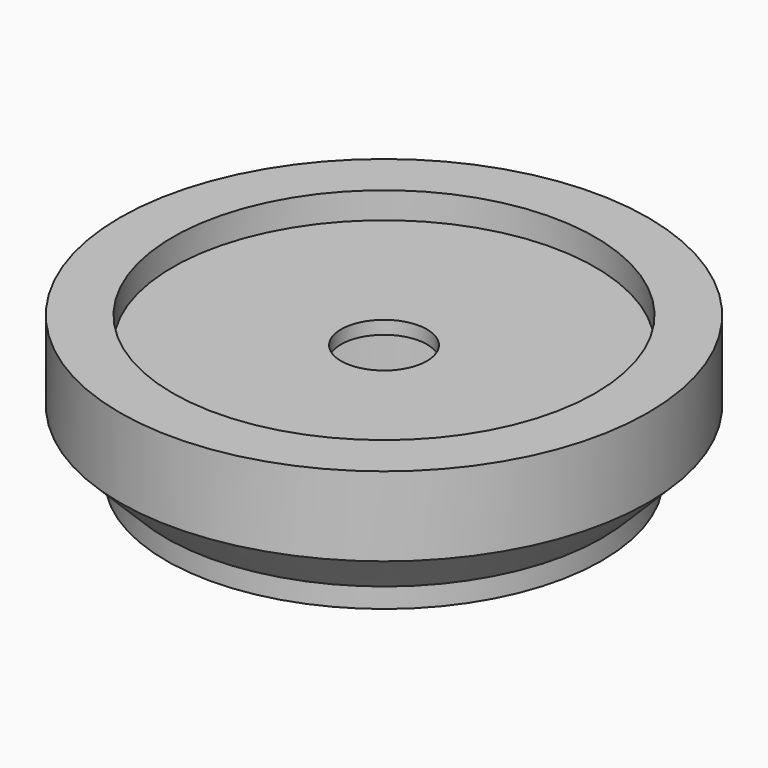
from build123d import *

# Parameters (mm, degrees)
F0_R          = 12.75
F0_R_2        = 3.25
F1_DEPTH      = 5
F0_R_3        = 20
F2_DEPTH      = 6
F2_DEPTH_BACK = 5
F3_SIZE       = 5
F4_R          = 16
F5_DEPTH      = 3
F6_START      = 4
F6_DEPTH      = 21
F7_R          = 16.5
F7_R_2        = 12.7
F8_DEPTH      = 4
F8_DEPTH_BACK = 5


with BuildPart() as f1:
    # F0 (on Top) → F1 (new body)
    with BuildSketch(Plane.XY):
        Circle(F0_R)
        Circle(F0_R_2, mode=Mode.SUBTRACT)
    extrude(amount=F1_DEPTH)

    # F0 (on Top) → F2 (join, two sides)
    with BuildSketch(Plane.XY) as f2_sk:
        Circle(F0_R_3)
        Circle(F0_R, mode=Mode.SUBTRACT)
    extrude(amount=F2_DEPTH)
    extrude(f2_sk.sketch, amount=-F2_DEPTH_BACK)

    # F3
    f3_edges = [f1.edges().sort_by_distance(p)[0] for p in [
        (-20, 0, -5),
    ]]
    chamfer(f3_edges, length=F3_SIZE)

    # F4 (on Top) → F5 (cut)
    with BuildSketch(Plane.XY):
        Circle(F4_R)
    extrude(amount=F5_DEPTH, mode=Mode.SUBTRACT)

    # F4 (on Top) → F6 (cut)
    with BuildSketch(Plane.XY.offset(F6_START)):
        Circle(F4_R)
    extrude(amount=F6_DEPTH, mode=Mode.SUBTRACT)

    # F7 (on Top) → F8 (join, two sides)
    with BuildSketch(Plane.XY) as f8_sk:
        Circle(F7_R)
        Circle(F7_R_2, mode=Mode.SUBTRACT)
    extrude(amount=F8_DEPTH)
    extrude(f8_sk.sketch, amount=-F8_DEPTH_BACK)


solid = f1.part
